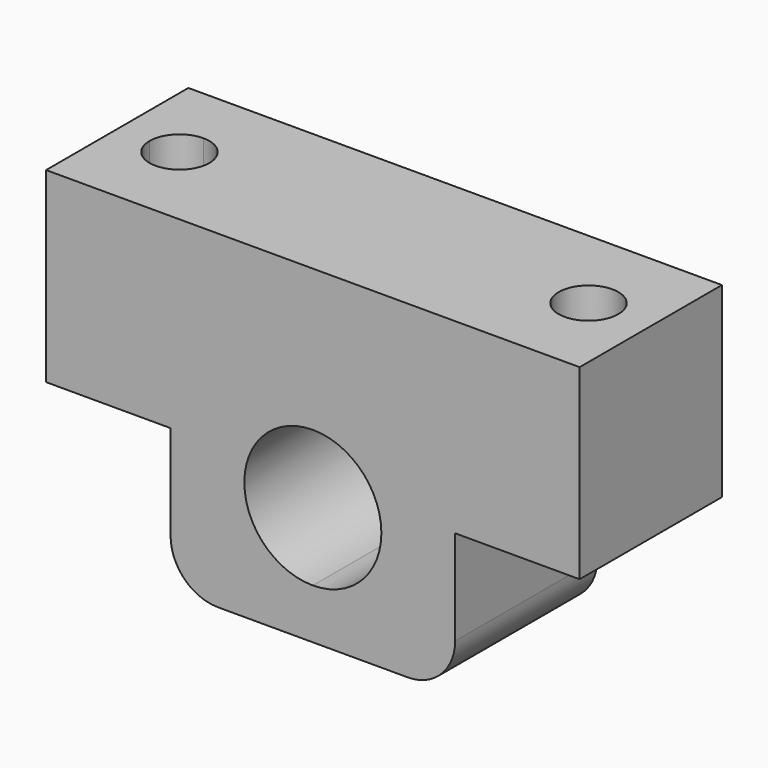
from build123d import *

# Parameters (mm, degrees)
F1_DEPTH = 9.525
F2_R     = 1.6
F3_DEPTH = 10
F4_R     = 2.54
F5_R     = 2.8
F6_DEPTH = 4.5


with BuildPart() as f1:
    # F0 (on Front) → F1 (new body)
    with BuildSketch(Plane.XZ):
        with BuildLine():
            Line((-14.2875, 10), (-14.2875, 0))
            Line((-14.2875, 0), (-7.62, 0))
            Line((-7.62, 0), (-7.62, -7.62))
            Line((-7.62, -7.62), (0, -7.62))
            Line((0, -7.62), (0, -4.9395))
            ThreePointArc((0, -4.9395), (-3.6695, -1.27), (0, 2.3995))
            Line((0, 2.3995), (0, 10))
            Line((0, 10), (-14.2875, 10))
        make_face()
        with BuildLine():
            Line((14.2875, 10), (0, 10))
            Line((0, 10), (0, 2.3995))
            ThreePointArc((0, 2.3995), (2.594728, 1.324728), (3.6695, -1.27))
            ThreePointArc((3.6695, -1.27), (2.594728, -3.864728), (0, -4.9395))
            Line((0, -4.9395), (0, -7.62))
            Line((0, -7.62), (7.62, -7.62))
            Line((7.62, -7.62), (7.62, 0))
            Line((7.62, 0), (14.2875, 0))
            Line((14.2875, 0), (14.2875, 10))
        make_face()
    extrude(amount=F1_DEPTH)

    # F2 (on face) → F3 (cut, through all)
    with BuildSketch(Plane(origin=(0, 0, 0), x_dir=(1, 0, 0), z_dir=(0, 0, -1))):
        with BuildLine():
            Line((-10.95375, 4.7625), (-9.35375, 4.7625))
            ThreePointArc((-9.35375, 4.7625), (-9.822379, 5.893871), (-10.95375, 6.3625))
            Line((-10.95375, 6.3625), (-10.95375, 4.7625))
        make_face()
        with BuildLine():
            ThreePointArc((-10.95375, 3.1625), (-9.822379, 3.631129), (-9.35375, 4.7625))
            Line((-9.35375, 4.7625), (-10.95375, 4.7625))
            Line((-10.95375, 4.7625), (-10.95375, 3.1625))
        make_face()
        with BuildLine():
            Line((-10.95375, 4.7625), (-10.95375, 6.3625))
            ThreePointArc((-10.95375, 6.3625), (-12.085121, 5.893871), (-12.55375, 4.7625))
            Line((-12.55375, 4.7625), (-10.95375, 4.7625))
        make_face()
        with BuildLine():
            ThreePointArc((-12.55375, 4.7625), (-12.085121, 3.631129), (-10.95375, 3.1625))
            Line((-10.95375, 3.1625), (-10.95375, 4.7625))
            Line((-10.95375, 4.7625), (-12.55375, 4.7625))
        make_face()
        with Locations((10.95375, 4.7625)):
            Circle(F2_R)
    extrude(amount=-F3_DEPTH, mode=Mode.SUBTRACT)

    # F4
    f4_edges = [f1.edges().sort_by_distance(p)[0] for p in [
        (-7.62, -4.7625, -7.62),
        (7.62, -4.7625, -7.62),
    ]]
    fillet(f4_edges, radius=F4_R)

    # F5 (on face) → F6 (cut)
    with BuildSketch(Plane(origin=(0, 0, 0), x_dir=(1, 0, 0), z_dir=(0, 0, -1))):
        with Locations((-10.95375, 4.7625)):
            Circle(F5_R)
        with Locations((10.95375, 4.7625)):
            Circle(F5_R)
    extrude(amount=-F6_DEPTH, mode=Mode.SUBTRACT)


solid = f1.part
